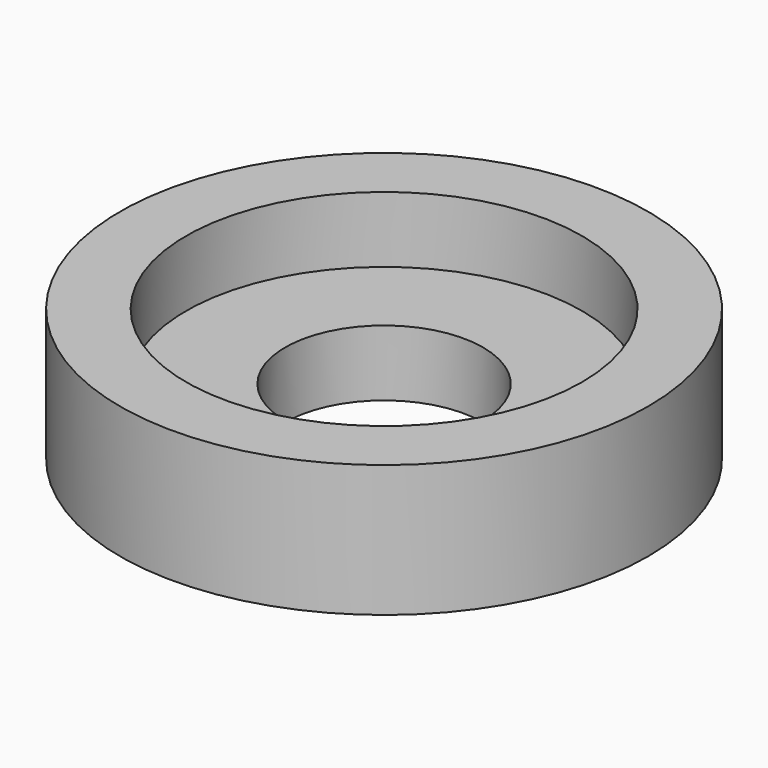
from build123d import *

# Parameters (mm, degrees)
TUBE001_R     = 3
TUBE001_R_2   = 1.5
TUBE001_DEPTH = 1
TUBE_R        = 4
TUBE_R_2      = 3
TUBE_DEPTH    = 2


with BuildPart() as tube001:
    # Tube001 → Tube001 (new body)
    with BuildSketch(Plane.XY):
        Circle(TUBE001_R)
        Circle(TUBE001_R_2, mode=Mode.SUBTRACT)
    extrude(amount=TUBE001_DEPTH)


with BuildPart() as insulator:
    # Tube → Tube (new body)
    with BuildSketch(Plane.XY):
        Circle(TUBE_R)
        Circle(TUBE_R_2, mode=Mode.SUBTRACT)
    extrude(amount=TUBE_DEPTH)

    # Fusion: union Tube001
    add(tube001.part)


with BuildPart() as insulator_1:
    # insulator placement: moved
    add(insulator.part.moved(Location((50, 0, 0))))


solid = insulator_1.part
